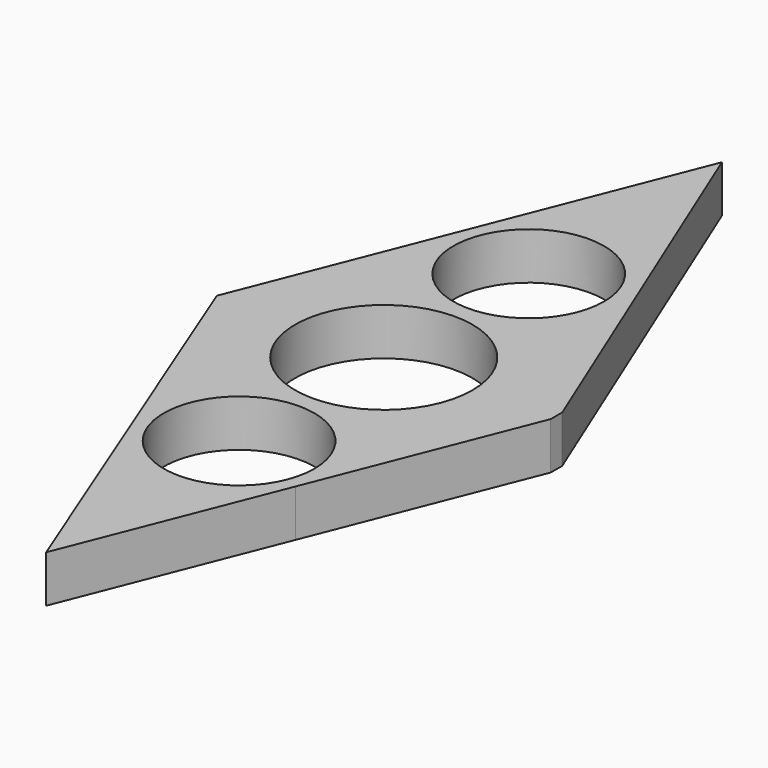
from build123d import *

# Parameters (mm, degrees)
F0_R     = 13.2
F0_R_2   = 11.2
F1_DEPTH = 7


with BuildPart() as f1:
    # F0 (on Top) → F1 (new body)
    with BuildSketch(Plane.XY):
        with BuildLine():
            Line((0, 62.8797411919), (-12.2768469832, 31.8009569457))
            Line((-12.2768469832, 31.8009569457), (-24.8389690807, 0))
            Line((-24.8389690807, 0), (-12.2747386314, -31.7658919264))
            ThreePointArc((-12.2747386314, -31.7658919264), (-2.4711788751, -13.9442943997), (13.2, -26.9109159708))
            ThreePointArc((13.2, -26.9109159708), (12.9666215525, -29.3820949435), (12.2747385583, -31.7658921113))
            Line((12.2747385583, -31.7658921113), (24.8389690807, 0))
            Line((24.8389690807, 0), (24.8389690807, 2.1297414787))
            Line((24.8389690807, 2.1297414787), (0, 62.8797411919))
        make_face()
        Circle(F0_R, mode=Mode.SUBTRACT)
        with BuildLine():
            ThreePointArc((-12.2768469832, 31.8009569457), (2.4683617869, 39.9184730161), (13.2, 26.9513148814))
            ThreePointArc((13.2, 26.9513148814), (-2.4683617869, 13.9841567468), (-12.2768469832, 31.8009569457))
        make_face(mode=Mode.SUBTRACT)
        with BuildLine():
            ThreePointArc((-12.2768469832, 31.8009569457), (-2.4683617869, 13.9841567468), (13.2, 26.9513148814))
            ThreePointArc((13.2, 26.9513148814), (2.4683617869, 39.9184730161), (-12.2768469832, 31.8009569457))
        make_face()
        with Locations((0, 26.9513148814)):
            Circle(F0_R_2, mode=Mode.SUBTRACT)
        with BuildLine():
            ThreePointArc((13.2, -26.9109159708), (-2.4711788751, -13.9442943997), (-12.2747386314, -31.7658919264))
            ThreePointArc((-12.2747386314, -31.7658919264), (-9.94e-08, -40.1109159708), (12.2747385583, -31.7658921113))
            ThreePointArc((12.2747385583, -31.7658921113), (12.9666215525, -29.3820949435), (13.2, -26.9109159708))
        make_face()
        with Locations((0, -26.9109159708)):
            Circle(F0_R_2, mode=Mode.SUBTRACT)
        with BuildLine():
            ThreePointArc((12.2747385583, -31.7658921113), (-9.94e-08, -40.1109159708), (-12.2747386314, -31.7658919264))
            Line((-12.2747386314, -31.7658919264), (0, -62.7998674944))
            Line((0, -62.7998674944), (12.2747385583, -31.7658921113))
        make_face()
    extrude(amount=F1_DEPTH)


solid = f1.part
